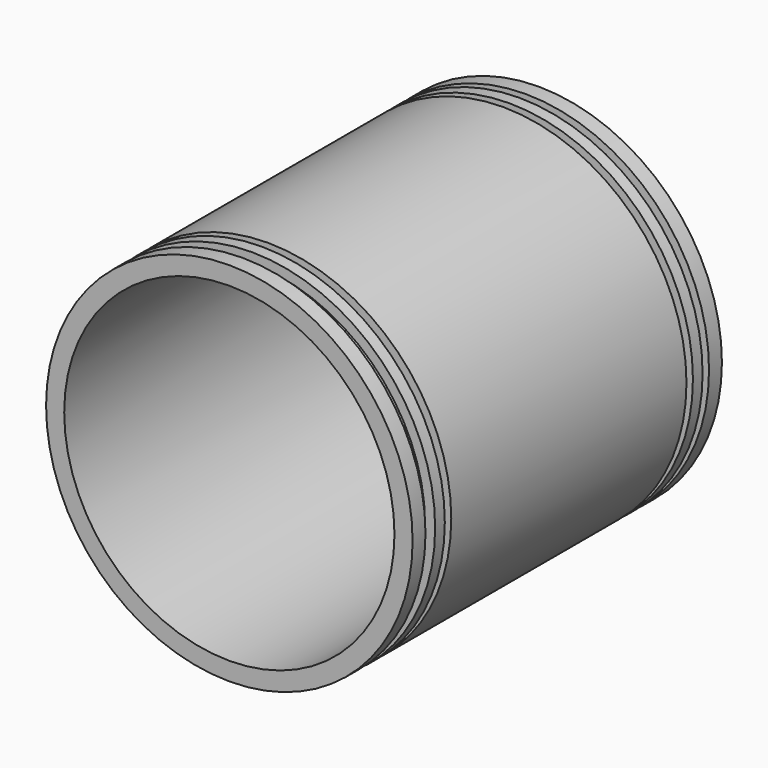
from build123d import *

# Parameters (mm, degrees)
PAD021_DEPTH         = 50
SKETCH042_R          = 45.5
PAD022_DEPTH         = 200
SKETCH043_R          = 41
SKETCH043_R_2        = 15
POCKET025_DEPTH      = 138
POCKET026_START      = -141
SKETCH044_R          = 47.5
SKETCH044_R_2        = 43
POCKET026_DEPTH      = 2
POCKET027_START      = -136
POCKET027_DEPTH      = 2
POCKET028_START      = -55
POCKET028_DEPTH      = 3
SKETCH049_R          = 30
POCKET030_DEPTH      = 110
POCKET031_START      = -61
POCKET031_DEPTH      = 2
SKETCH052_R          = 11
POCKET032_DEPTH      = 130
POCKET032_DEPTH_BACK = 5


with BuildPart() as body070:
    # Sketch041 → Pad021 (new body, symmetric)
    with BuildSketch(Plane.XY):
        Polygon((-45.5, 147), (45.5, 147), (45.5, 51), (0, 51), (-45.5, 51), align=None)
    extrude(amount=PAD021_DEPTH, both=True)


with BuildPart() as body071:
    # Sketch042 → Pad022 (new body)
    with BuildSketch(Plane.XZ):
        Circle(SKETCH042_R)
    extrude(amount=-PAD022_DEPTH)

    # Boolean004: intersect Body070
    add(body070.part, mode=Mode.INTERSECT)

    # Sketch043 → Pocket025 (cut)
    with BuildSketch(Plane.XZ):
        Circle(SKETCH043_R)
        Circle(SKETCH043_R_2, mode=Mode.SUBTRACT)
    extrude(amount=-POCKET025_DEPTH, mode=Mode.SUBTRACT)

    # Sketch044 → Pocket026 (cut)
    with BuildSketch(Plane.XZ.offset(POCKET026_START)):
        Circle(SKETCH044_R)
        Circle(SKETCH044_R_2, mode=Mode.SUBTRACT)
    extrude(amount=-POCKET026_DEPTH, mode=Mode.SUBTRACT)

    # Sketch044 → Pocket027 (cut)
    with BuildSketch(Plane.XZ.offset(POCKET027_START)):
        Circle(SKETCH044_R)
        Circle(SKETCH044_R_2, mode=Mode.SUBTRACT)
    extrude(amount=-POCKET027_DEPTH, mode=Mode.SUBTRACT)

    # Sketch044 → Pocket028 (cut)
    with BuildSketch(Plane.XZ.offset(POCKET028_START)):
        Circle(SKETCH044_R)
        Circle(SKETCH044_R_2, mode=Mode.SUBTRACT)
    extrude(amount=-POCKET028_DEPTH, mode=Mode.SUBTRACT)

    # Sketch049 → Pocket030 (cut)
    with BuildSketch(Plane.XZ):
        Circle(SKETCH049_R)
    extrude(amount=-POCKET030_DEPTH, mode=Mode.SUBTRACT)

    # Sketch044 → Pocket031 (cut)
    with BuildSketch(Plane.XZ.offset(POCKET031_START)):
        Circle(SKETCH044_R)
        Circle(SKETCH044_R_2, mode=Mode.SUBTRACT)
    extrude(amount=-POCKET031_DEPTH, mode=Mode.SUBTRACT)

    # Sketch052 → Pocket032 (cut, two sides)
    with BuildSketch(Plane.XZ) as pocket032_sk:
        Circle(SKETCH052_R)
    extrude(amount=-POCKET032_DEPTH, mode=Mode.SUBTRACT)
    extrude(pocket032_sk.sketch, amount=POCKET032_DEPTH_BACK, mode=Mode.SUBTRACT)


solid = body071.part
